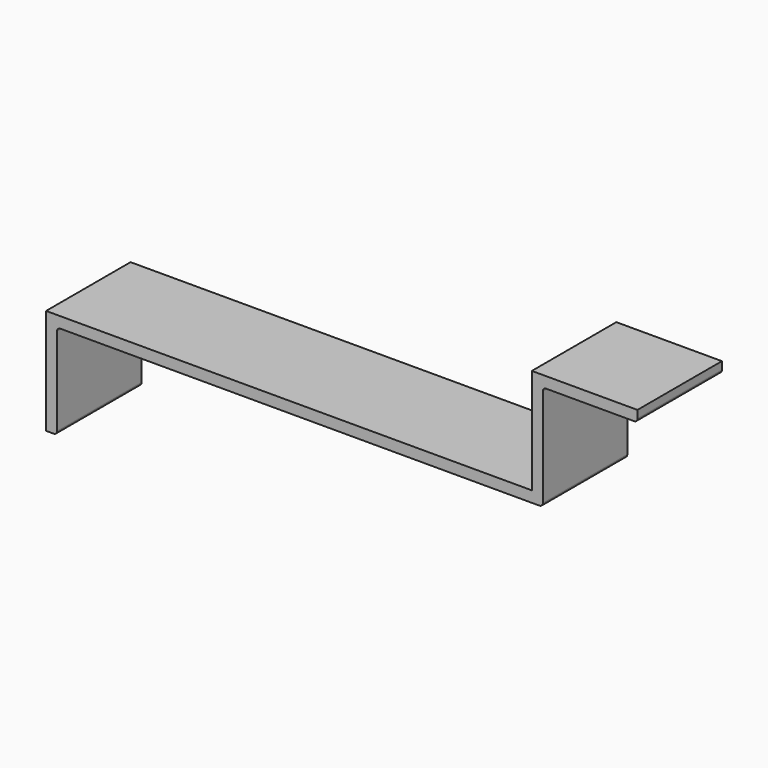
from build123d import *

# Parameters (mm, degrees)
F1_DEPTH = 24


with BuildPart() as f1:
    # F0 (on Front) → F1 (new body)
    with BuildSketch(Plane.XZ):
        with BuildLine():
            Line((55.2, -11.95), (-55.2, -11.95))
            Line((-55.2, -11.95), (-55.2, -14.45))
            Line((-55.2, -14.45), (-55.2, -35.95))
            Line((-55.2, -35.95), (-53.458164, -35.95))
            ThreePointArc((-53.458164, -35.95), (-52.922061, -35.727939), (-52.7, -35.191836))
            Line((-52.7, -35.191836), (-52.7, -15.208164))
            ThreePointArc((-52.7, -15.208164), (-52.477939, -14.672061), (-51.941836, -14.45))
            Line((-51.941836, -14.45), (56.941836, -14.45))
            ThreePointArc((56.941836, -14.45), (57.477939, -14.227939), (57.7, -13.691836))
            Line((57.7, -13.691836), (57.7, -11.95))
            Line((57.7, -11.95), (55.2, -11.95))
        make_face()
        with BuildLine():
            Line((55.2, 11.95), (55.2, -11.95))
            Line((55.2, -11.95), (57.7, -11.95))
            Line((57.7, -11.95), (57.7, 8.691836))
            ThreePointArc((57.7, 8.691836), (57.922061, 9.227939), (58.458164, 9.45))
            Line((58.458164, 9.45), (78.441836, 9.45))
            ThreePointArc((78.441836, 9.45), (78.977939, 9.672061), (79.2, 10.208164))
            Line((79.2, 10.208164), (79.2, 11.95))
            Line((79.2, 11.95), (57.7, 11.95))
            Line((57.7, 11.95), (55.2, 11.95))
        make_face()
    extrude(amount=F1_DEPTH)


solid = f1.part
